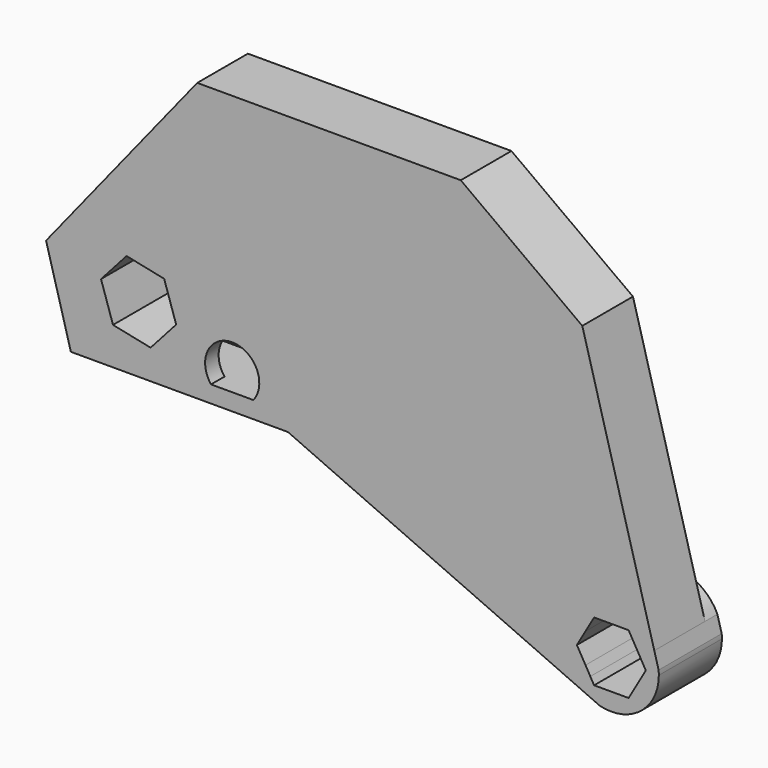
from build123d import *

# Parameters (mm, degrees)
F0_R     = 3.93
F1_DEPTH = 1.5
F2_DEPTH = 5.62
F3_DEPTH = 9.8
F4_DEPTH = 7
F7_DEPTH = 3


with BuildPart() as f1:
    # F0 (on Front) → F1 (new body)
    with BuildSketch(Plane.XZ):
        with BuildLine():
            Line((-22.505389868, -2.0895681901), (-11.2077256692, -2.0895681901))
            ThreePointArc((-11.2077256692, -2.0895681901), (-9.3285928413, 1.8148319814), (-7.4494600134, -2.0895681901))
            Line((-7.4494600134, -2.0895681901), (-4.0605032691, -2.0895681901))
            Line((-4.0605032691, -2.0895681901), (20.2483866423, -12.9712812224))
            ThreePointArc((20.2483866423, -12.9712812224), (21.5778297936, -8.6925507754), (26.0093476524, -8.0317915166))
            Line((26.0093476524, -8.0317915166), (20.4338732281, 12.2993333716))
            Line((20.4338732281, 12.2993333716), (10.4662147941, 19.5698092025))
            Line((10.4662147941, 19.5698092025), (-11.712607269, 19.5698092025))
            Line((-11.712607269, 19.5698092025), (-24.1958881701, 4.0444751638))
            Line((-24.1958881701, 4.0444751638), (-22.505389868, -2.0895681901))
        make_face()
        with Locations((-17.636482101, 2.2704318099)):
            Circle(F0_R, mode=Mode.SUBTRACT)
    extrude(amount=-F1_DEPTH)

    # F0 (on Front) → F2 (join)
    with BuildSketch(Plane.XZ):
        with BuildLine():
            Line((-7.4494600134, -2.0895681901), (-9.3285928413, -2.0895681901))
            Line((-9.3285928413, -2.0895681901), (-11.2077256692, -2.0895681901))
            Line((-11.2077256692, -2.0895681901), (-22.505389868, -2.0895681901))
            Line((-22.505389868, -2.0895681901), (-24.1958881701, 4.0444751638))
            Line((-24.1958881701, 4.0444751638), (-11.712607269, 19.5698092025))
            Line((-11.712607269, 19.5698092025), (10.4662147941, 19.5698092025))
            Line((10.4662147941, 19.5698092025), (20.4338732281, 12.2993333716))
            Line((20.4338732281, 12.2993333716), (26.0093476524, -8.0317915166))
            ThreePointArc((26.0093476524, -8.0317915166), (27.2575403042, -8.8716753621), (28.1309747483, -10.096625174))
            Line((28.1309747483, -10.096625174), (21.7417066053, 13.2020214837))
            Line((21.7417066053, 13.2020214837), (10.9551470408, 21.0698092025))
            Line((10.9551470408, 21.0698092025), (-12.4312654999, 21.0698092025))
            Line((-12.4312654999, 21.0698092025), (-25.8459559813, 4.3860902027))
            Line((-25.8459559813, 4.3860902027), (-23.6479217985, -3.5895681901))
            Line((-23.6479217985, -3.5895681901), (-4.3809167168, -3.5895681901))
            Line((-4.3809167168, -3.5895681901), (21.9651791943, -15.3832229506))
            ThreePointArc((21.9651791943, -15.3832229506), (20.887904522, -14.3330472271), (20.2483866423, -12.9712812224))
            Line((20.2483866423, -12.9712812224), (-4.0605032691, -2.0895681901))
            Line((-4.0605032691, -2.0895681901), (-7.4494600134, -2.0895681901))
        make_face()
        with BuildLine():
            Line((-7.4494600134, -2.0895681901), (-9.3285928413, -2.0895681901))
            Line((-9.3285928413, -2.0895681901), (-11.2077256692, -2.0895681901))
            Line((-11.2077256692, -2.0895681901), (-22.505389868, -2.0895681901))
            Line((-22.505389868, -2.0895681901), (-24.1958881701, 4.0444751638))
            Line((-24.1958881701, 4.0444751638), (-11.712607269, 19.5698092025))
            Line((-11.712607269, 19.5698092025), (10.4662147941, 19.5698092025))
            Line((10.4662147941, 19.5698092025), (20.4338732281, 12.2993333716))
            Line((20.4338732281, 12.2993333716), (26.0093476524, -8.0317915166))
            ThreePointArc((26.0093476524, -8.0317915166), (27.2575403042, -8.8716753621), (28.1309747483, -10.096625174))
            Line((28.1309747483, -10.096625174), (21.7417066053, 13.2020214837))
            Line((21.7417066053, 13.2020214837), (10.9551470408, 21.0698092025))
            Line((10.9551470408, 21.0698092025), (-12.4312654999, 21.0698092025))
            Line((-12.4312654999, 21.0698092025), (-25.8459559813, 4.3860902027))
            Line((-25.8459559813, 4.3860902027), (-23.6479217985, -3.5895681901))
            Line((-23.6479217985, -3.5895681901), (-4.3809167168, -3.5895681901))
            Line((-4.3809167168, -3.5895681901), (21.9651791943, -15.3832229506))
            ThreePointArc((21.9651791943, -15.3832229506), (20.887904522, -14.3330472271), (20.2483866423, -12.9712812224))
            Line((20.2483866423, -12.9712812224), (-4.0605032691, -2.0895681901))
            Line((-4.0605032691, -2.0895681901), (-7.4494600134, -2.0895681901))
        make_face()
    extrude(amount=-F2_DEPTH)

    # F0 (on Front) → F3 (join)
    with BuildSketch(Plane.XZ):
        with Locations((-17.636482101, 2.2704318099)):
            Circle(F0_R)
        Polygon((-16.5711225386, -0.9650499681), (-19.9058117331, -0.2699375244), (-20.9711712955, 2.9655442536), (-18.7018416635, 5.5059135879), (-15.367152469, 4.8108011442), (-14.3017929065, 1.5753193661), align=None, mode=Mode.SUBTRACT)
    extrude(amount=-F3_DEPTH)

    # F0 (on Front) → F4 (join)
    with BuildSketch(Plane.XZ):
        with BuildLine():
            Line((22.4537352546, -13.9584908738), (20.2483866423, -12.9712812224))
            ThreePointArc((20.2483866423, -12.9712812224), (20.887904522, -14.3330472271), (21.9651791943, -15.3832229506))
            Line((21.9651791943, -15.3832229506), (23.2829635099, -15.9731203426))
            ThreePointArc((23.2829635099, -15.9731203426), (26.905846951, -15.2153095013), (28.5319774541, -11.8903641956))
            ThreePointArc((28.5319774541, -11.8903641956), (28.5271836329, -11.6894581734), (28.5128130807, -11.4890094325))
            Line((28.5128130807, -11.4890094325), (28.1309747483, -10.096625174))
            ThreePointArc((28.1309747483, -10.096625174), (27.2575403042, -8.8716753621), (26.0093476524, -8.0317915166))
            Line((26.0093476524, -8.0317915166), (26.7851210641, -10.8606711631))
            Line((26.7851210641, -10.8606711631), (27.3796146136, -11.8903641956))
            Line((27.3796146136, -11.8903641956), (26.6146255071, -13.2153641953))
            Line((26.6146255071, -13.2153641953), (25.8496364003, -14.5403641956))
            Line((25.8496364003, -14.5403641956), (24.3196581869, -14.5403641956))
            Line((24.3196581869, -14.5403641956), (22.7896799735, -14.5403641956))
            Line((22.7896799735, -14.5403641956), (22.4537352546, -13.9584908738))
        make_face()
        with BuildLine():
            ThreePointArc((26.0093476524, -8.0317915166), (21.5778297936, -8.6925507754), (20.2483866423, -12.9712812224))
            Line((20.2483866423, -12.9712812224), (22.4537352546, -13.9584908738))
            Line((22.4537352546, -13.9584908738), (22.024690908, -13.2153642668))
            Line((22.024690908, -13.2153642668), (21.2597017602, -11.8903641956))
            Line((21.2597017602, -11.8903641956), (22.0246909248, -10.5653640952))
            Line((22.0246909248, -10.5653640952), (22.7896799735, -9.2403641956))
            Line((22.7896799735, -9.2403641956), (24.3196581869, -9.2403641956))
            Line((24.3196581869, -9.2403641956), (25.8496364003, -9.2403641956))
            Line((25.8496364003, -9.2403641956), (26.6146254836, -10.5653641553))
            Line((26.6146254836, -10.5653641553), (26.7851210641, -10.8606711631))
            Line((26.7851210641, -10.8606711631), (26.0093476524, -8.0317915166))
        make_face()
    extrude(amount=-F4_DEPTH)

    # F6 (on face) → F7 (cut)
    with BuildSketch(Plane(origin=(0, 9.8, 0), x_dir=(-1, 0, 0), z_dir=(0, 1, 0))):
        with BuildLine():
            ThreePointArc((16.5027278304, -1.4924794638), (17.2955343411, -1.6447507689), (18.1027278304, -1.6318130466))
            Line((18.1027278304, -1.6318130466), (18.1027278304, -0.6457884612))
            Line((18.1027278304, -0.6457884612), (16.5711225386, -0.9650499681))
            Line((16.5711225386, -0.9650499681), (16.5027278304, -0.8884864682))
            Line((16.5027278304, -0.8884864682), (16.5027278304, -1.4924794638))
        make_face()
        with BuildLine():
            Line((20.9711712955, 2.9655442536), (20.60459144, 1.852246467))
            Line((20.60459144, 1.852246467), (21.544169527, 1.852246467))
            ThreePointArc((21.544169527, 1.852246467), (21.5608999932, 2.0610417242), (21.566482101, 2.2704318099))
            ThreePointArc((21.566482101, 2.2704318099), (21.520739578, 2.8682978924), (21.3845768325, 3.452246467))
            Line((21.3845768325, 3.452246467), (20.5363968161, 3.452246467))
            Line((20.5363968161, 3.452246467), (20.9711712955, 2.9655442536))
        make_face()
    extrude(amount=-F7_DEPTH, mode=Mode.SUBTRACT)


solid = f1.part
